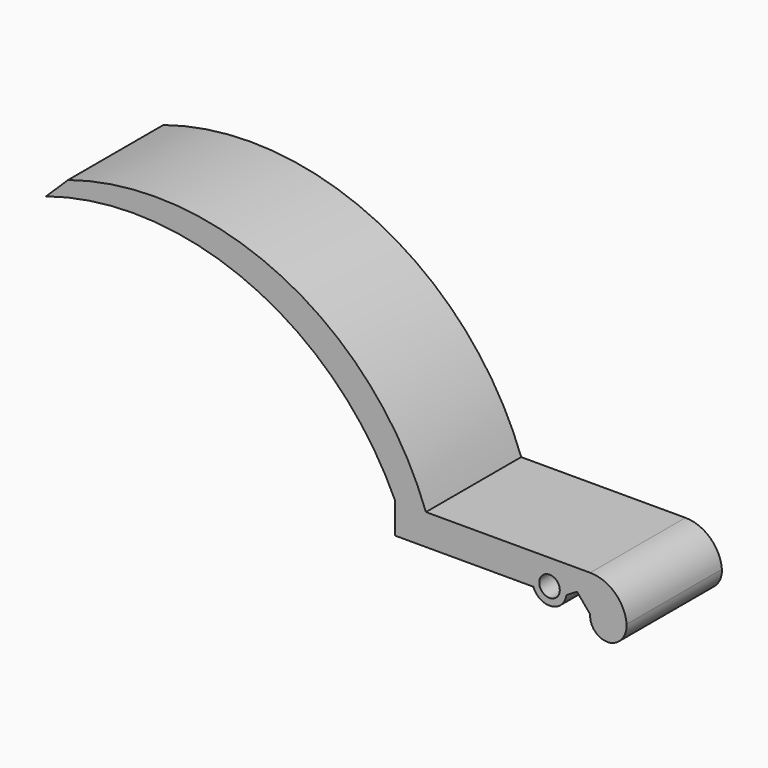
from build123d import *

# Parameters (mm, degrees)
F0_R     = 3.175
F1_DEPTH = 36.83


with BuildPart() as f1:
    # F0 (on Front) → F1 (new body)
    with BuildSketch(Plane.XZ):
        with BuildLine():
            ThreePointArc((62.088635, -10.342405), (58.455041, -2.976517), (50.8, 0))
            Line((50.8, 0), (0, 0))
            ThreePointArc((0, 0), (-44.362831, 49.530234), (-110.674764, 54.432515))
            Line((-110.674764, 54.432515), (-117.477787, 47.765843))
            ThreePointArc((-117.477787, 47.765843), (-54.428904, 44.387125), (-9.525, 0))
            Line((-9.525, 0), (-9.525, -9.525))
            Line((-9.525, -9.525), (33.252759, -9.525))
            ThreePointArc((33.252759, -9.525), (38.78438, -13.029125), (43.465026, -8.449902))
            Line((43.465026, -8.449902), (46.737876, -6.497675))
            Line((46.737876, -6.497675), (50.8, -11.33192))
            ThreePointArc((50.8, -11.33192), (53.063335, -16.138655), (58.351003, -16.6563))
            ThreePointArc((58.351003, -16.6563), (61.171819, -14.062908), (62.088635, -10.342405))
        make_face()
        with Locations((38.232074, -7.782818)):
            Circle(F0_R, mode=Mode.SUBTRACT)
    extrude(amount=-F1_DEPTH)


solid = f1.part
